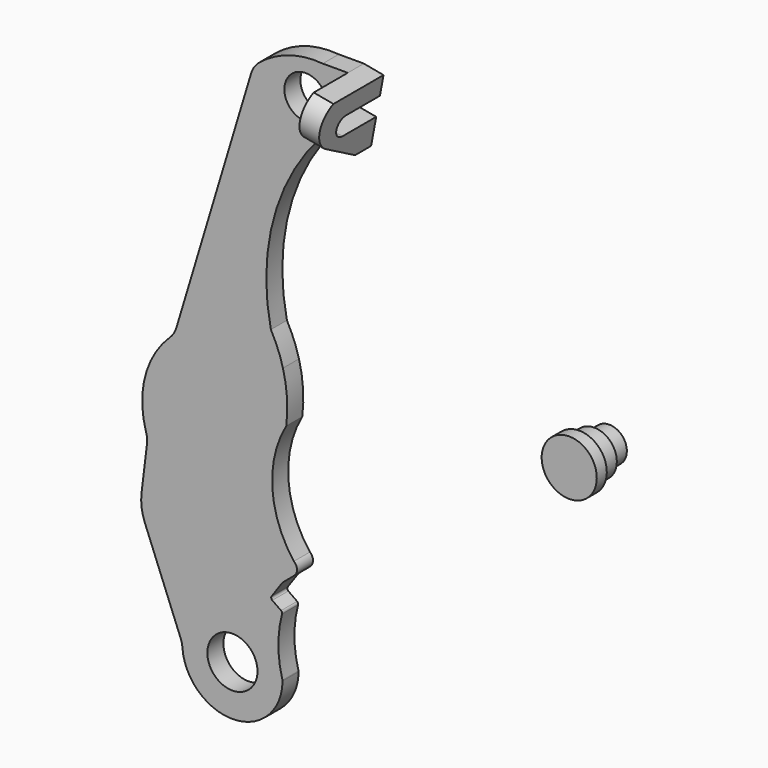
from build123d import *

# Parameters (mm, degrees)
F0_R     = 5
F0_R_2   = 4.25
F1_DEPTH = 4
F3_DEPTH = 4
F5_DEPTH = 25


with BuildPart() as f1:
    # F0 (on Front) → F1 (new body)
    with BuildSketch(Plane.XZ):
        with BuildLine():
            ThreePointArc((12.2650222898, 21.6880099312), (7.9704050479, 33.0985342265), (10.7389089564, 44.9719999404))
            ThreePointArc((10.7389089564, 44.9719999404), (10.8914434684, 49.9730301536), (10.0832368005, 54.9106785769))
            ThreePointArc((10.0832368005, 54.9106785769), (9.0639005375, 57.9782526004), (7.671797859, 60.8956327502))
            ThreePointArc((7.671797859, 60.8956327502), (8.1851123857, 80.4983236589), (17.5419144198, 97.7314092316))
            Line((17.5419144198, 97.7314092316), (20.5419144198, 97.7314092316))
            Line((20.5419144198, 97.7314092316), (23.0218023764, 110.9901437528))
            Line((23.0218023764, 110.9901437528), (18.0218023764, 110.9901437528))
            ThreePointArc((18.0218023764, 110.9901437528), (11.2803266129, 110.2612488956), (5.3219915514, 107.0244253791))
            ThreePointArc((5.3219915514, 107.0244253791), (4.3468843881, 105.9385897965), (3.7268564987, 104.6174394233))
            Line((3.7268564987, 104.6174394233), (-11.1683143292, 55.1241001526))
            ThreePointArc((-11.1683143292, 55.1241001526), (-11.6889308588, 53.9591634235), (-12.4874515148, 52.9639328394))
            ThreePointArc((-12.4874515148, 52.9639328394), (-17.4178097195, 44.5409145086), (-17.2273496163, 34.7828719397))
            ThreePointArc((-17.2273496163, 34.7828719397), (-17.0315424316, 33.7670576387), (-17.0489735044, 32.732690535))
            Line((-17.0489735044, 32.732690535), (-18.1359854504, 23.7545812302))
            ThreePointArc((-18.1359854504, 23.7545812302), (-18.1253384879, 21.2657717208), (-17.5004131485, 18.8566734554))
            Line((-17.5004131485, 18.8566734554), (-10.3172053735, 0.7974811558))
            ThreePointArc((-10.3172053735, 0.7974811558), (-10.0884552373, 0.0617805734), (-9.9754468186, -0.700329044))
            ThreePointArc((-9.9754468186, -0.700329044), (0.3144905166, -9.9950535624), (9.9997421097, -0.071817406))
            ThreePointArc((9.9997421097, -0.071817406), (9.9953426305, -0.0019475446), (9.9812273483, 0.0666229429))
            ThreePointArc((9.9812273483, 0.0666229429), (9.1664539194, 5.860319077), (9.9075932487, 11.6638941071))
            ThreePointArc((9.9075932487, 11.6638941071), (9.8941724043, 11.9639619698), (9.7112356205, 12.2021949953))
            Line((9.7112356205, 12.2021949953), (7.9521198893, 13.4339410909))
            ThreePointArc((7.9521198893, 13.4339410909), (7.7465042309, 13.7566930242), (7.8293320853, 14.1303053312))
            Line((7.8293320853, 14.1303053312), (9.9244872296, 17.1224969743))
            ThreePointArc((9.9244872296, 17.1224969743), (10.0063619371, 17.2245107456), (10.1008516642, 17.3149649811))
            Line((10.1008516642, 17.3149649811), (12.2981333294, 19.1587032159))
            ThreePointArc((12.2981333294, 19.1587032159), (12.8814034736, 20.4312088641), (12.2650222898, 21.6880099312))
        make_face()
        Circle(F0_R, mode=Mode.SUBTRACT)
        with Locations((14.6131756008, 103.9781472179)):
            Circle(F0_R_2, mode=Mode.SUBTRACT)
    extrude(amount=F1_DEPTH)

    # F2 (on face) → F3 (join)
    with BuildSketch(Plane(origin=(2.1859498324, 0, -0.4088558116), x_dir=(0, 1, 0), z_dir=(0.9829543353, 0, -0.18384987))):
        with BuildLine():
            Line((-12.6602540378, 104.8421406956), (-4, 99.8421406956))
            Line((-4, 99.8421406956), (0, 99.8421406956))
            Line((0, 99.8421406956), (0, 105.3824818801))
            Line((0, 105.3824818801), (-8.4, 105.3824818801))
            ThreePointArc((-8.4, 105.3824818801), (-10.4, 107.3824818801), (-8.4, 109.3824818801))
            Line((-8.4, 109.3824818801), (0, 109.3824818801))
            Line((0, 109.3824818801), (0, 113.3307983523))
            Line((0, 113.3307983523), (-4, 113.3307983523))
            Line((-4, 113.3307983523), (-12.5, 113.3307983523))
            ThreePointArc((-12.5, 113.3307983523), (-14.9378794182, 109.1309806066), (-12.6602540378, 104.8421406956))
        make_face()
    extrude(amount=F3_DEPTH)

    # F4 (on face) → F5 (cut)
    with BuildSketch(Plane.XZ.offset(4)):
        with BuildLine():
            ThreePointArc((18.7467740956, 102.9902891897), (18.8339749092, 103.4808010622), (18.8631756008, 103.9781472179))
            ThreePointArc((18.8631756008, 103.9781472179), (18.5839615318, 105.4931914715), (17.783006617, 106.8091667036))
            ThreePointArc((17.783006617, 106.8091667036), (10.4923774958, 102.9381842484), (18.7467740956, 102.9902891897))
        make_face()
        with BuildLine():
            ThreePointArc((17.783006617, 106.8091667036), (18.5839615318, 105.4931914715), (18.8631756008, 103.9781472179))
            ThreePointArc((18.8631756008, 103.9781472179), (18.8339749092, 103.4808010622), (18.7467740956, 102.9902891897))
            Line((18.7467740956, 102.9902891897), (21.5605054263, 103.177311618))
            Line((21.5605054263, 103.177311618), (22.2959049063, 107.1091289592))
            Line((22.2959049063, 107.1091289592), (17.783006617, 106.8091667036))
        make_face()
    extrude(amount=-F5_DEPTH, mode=Mode.SUBTRACT)


with BuildPart() as f7:
    # F6 (on Right) → F7 (revolve)
    with BuildSketch(Plane.YZ):
        Polygon((80, 5.5), (80, 0), (90, 0), (90, 3.5), (86.25, 3.5), (86.25, 4.5), (82.5, 4.5), (82.5, 5.5), align=None)
    revolve(axis=Axis((0, 85, 0), (0, 1, 0)))


solid = Compound([f1.part, f7.part])
